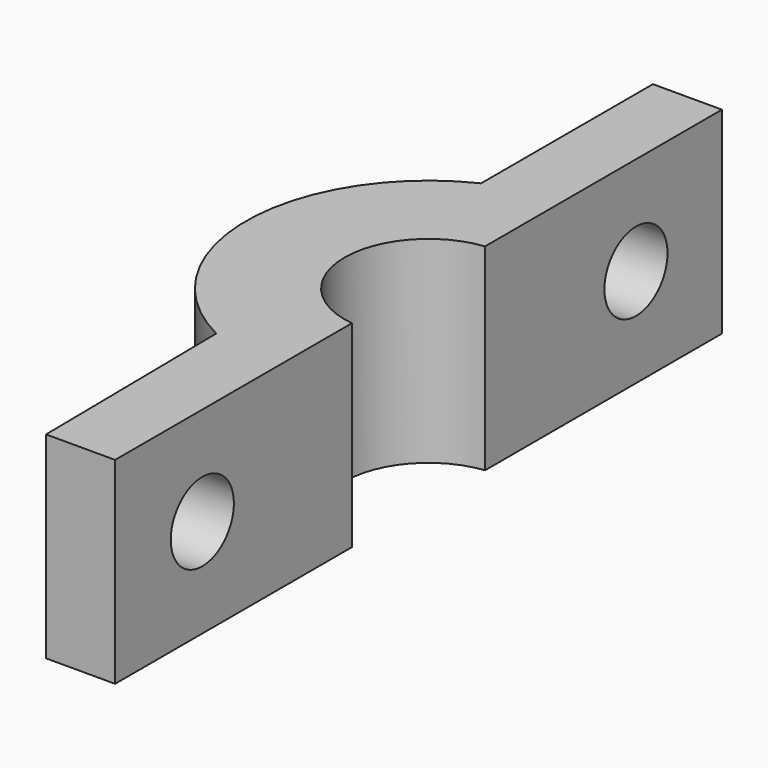
from build123d import *

# Parameters (mm, degrees)
F1_DEPTH = 10
F2_R     = 2
F3_DEPTH = 25
F4_R     = 2
F5_DEPTH = 25


with BuildPart() as f1:
    # F0 (on Top) → F1 (new body)
    with BuildSketch(Plane.XY):
        with BuildLine():
            ThreePointArc((-0.5, -4.220485754), (-4.25, 0), (-0.5, 4.220485754))
            Line((-0.5, 4.220485754), (-0.5, 9.236476601))
            Line((-0.5, 9.236476601), (-0.5, 19.236476601))
            Line((-0.5, 19.236476601), (-4, 19.236476601))
            Line((-4, 19.236476601), (-4, 8.3404136588))
            ThreePointArc((-4, 8.3404136588), (-9.2496585868, 0.0794734394), (-4.1427212192, -8.2704510699))
            Line((-4.1427212192, -8.2704510699), (-4, -19.236476601))
            Line((-4, -19.236476601), (-0.5, -19.236476601))
            Line((-0.5, -19.236476601), (-0.5, -9.236476601))
            Line((-0.5, -9.236476601), (-0.5, -4.220485754))
        make_face()
    extrude(amount=F1_DEPTH)

    # F2 (on face) → F3 (cut)
    with BuildSketch(Plane(origin=(-4, 0, 0), x_dir=(0, -1, 0), z_dir=(-1, 0, 0))):
        with Locations((-13.7884451299, 5)):
            Circle(F2_R)
    extrude(amount=-F3_DEPTH, mode=Mode.SUBTRACT)

    # F4 (on face) → F5 (cut)
    with BuildSketch(Plane(origin=(-4.2496400996, -0.0553084447, 0), x_dir=(0.0130137517, -0.9999153175, 0), z_dir=(-0.9999153175, -0.0130137517, 0))):
        with Locations((13.6993154824, 5)):
            Circle(F4_R)
    extrude(amount=-F5_DEPTH, mode=Mode.SUBTRACT)


solid = f1.part
